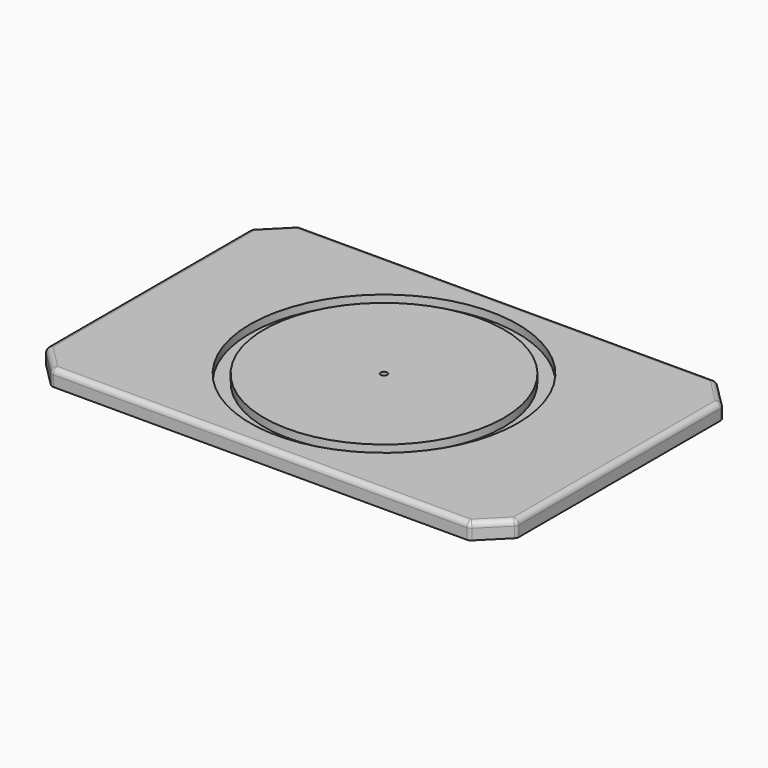
from build123d import *

# Parameters (mm, degrees)
F0_W     = 176.5
F0_H     = 116
F1_DEPTH = 6
F2_SIZE  = 10
F4_R     = 2
F3_R     = 50.125
F3_R_2   = 44.875
F5_DEPTH = 3
F3_R_3   = 1.25
F6_DEPTH = 6.001
F7_R     = 5
F8_DEPTH = 4


with BuildPart() as f1:
    # F0 (on Top) → F1 (new body)
    with BuildSketch(Plane.XY):
        with Locations((-3.4001671076, 29.7604629695)):
            Rectangle(F0_W, F0_H)
    extrude(amount=F1_DEPTH)

    # F2
    f2_edges = [f1.edges().sort_by_distance(p)[0] for p in [
        (-91.650167, -28.239537, 3),
        (84.849833, -28.239537, 3),
        (84.849833, 87.760463, 3),
        (-91.650167, 87.760463, 3),
    ]]
    chamfer(f2_edges, length=F2_SIZE)

    # F4
    f4_edges = [f1.edges().sort_by_distance(p)[0] for p in [
        (-3.400167, -28.239537, 6),
        (-86.650167, -23.239537, 6),
        (-91.650167, 29.760463, 6),
        (-86.650167, 82.760463, 6),
        (-3.400167, 87.760463, 6),
        (79.849833, 82.760463, 6),
        (84.849833, 29.760463, 6),
        (79.849833, -23.239537, 6),
        (-81.650167, -28.239537, 3),
        (-91.650167, -18.239537, 3),
        (-91.650167, 77.760463, 3),
        (-81.650167, 87.760463, 3),
        (74.849833, 87.760463, 3),
        (84.849833, 77.760463, 3),
        (84.849833, -18.239537, 3),
        (74.849833, -28.239537, 3),
    ]]
    fillet(f4_edges, radius=F4_R)

    # F3 (on face) → F5 (cut)
    with BuildSketch(Plane.XY.offset(6)):
        with Locations((-3.4001671076, 29.7604629695)):
            Circle(F3_R)
        with Locations((-3.4001671076, 29.7604629695)):
            Circle(F3_R_2, mode=Mode.SUBTRACT)
    extrude(amount=-F5_DEPTH, mode=Mode.SUBTRACT)

    # F3 (on face) → F6 (cut, through all)
    with BuildSketch(Plane.XY.offset(6)):
        with Locations((-3.4001671076, 29.7604629695)):
            Circle(F3_R_3)
    extrude(amount=-F6_DEPTH, mode=Mode.SUBTRACT)

    # F7 (on face) → F8 (cut)
    with BuildSketch(Plane(origin=(0, 0, 0), x_dir=(1, 0, 0), z_dir=(0, 0, -1))):
        with Locations((-3.4001671076, -29.7604629695)):
            Circle(F7_R)
    extrude(amount=-F8_DEPTH, mode=Mode.SUBTRACT)


solid = f1.part
